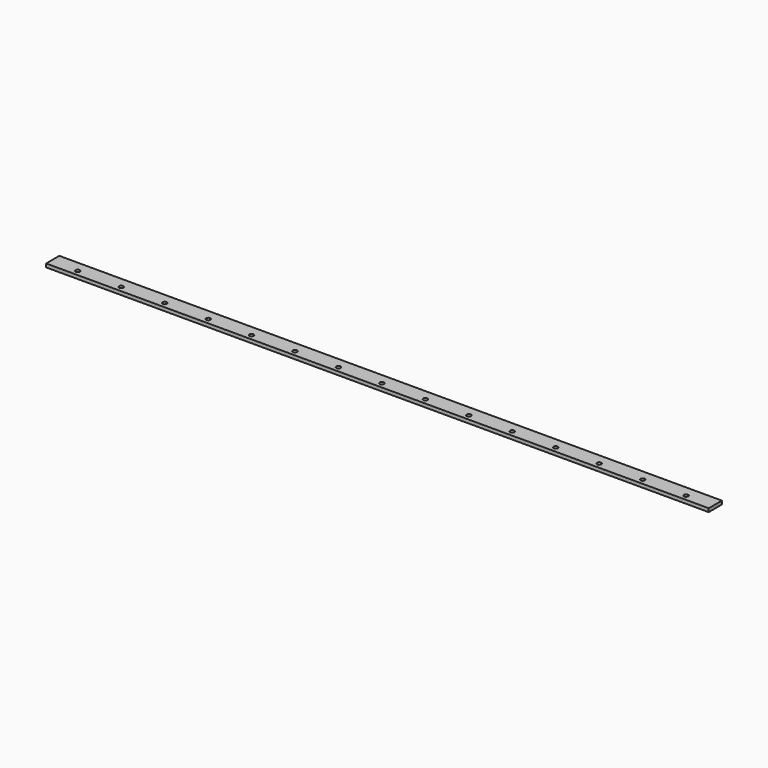
from build123d import *

# Parameters (mm, degrees)
F0_W     = 1525
F0_H     = 38
F1_DEPTH = 8
F2_R     = 5
F3_DEPTH = 8.001


with BuildPart() as f1:
    # F0 (on Top) → F1 (new body)
    with BuildSketch(Plane.XY):
        Rectangle(F0_W, F0_H)
    extrude(amount=F1_DEPTH)

    # F2 (on face) → F3 (cut, through all)
    with BuildSketch(Plane.XY.offset(8)):
        with Locations((-700, -6)):
            Circle(F2_R)
        with Locations((-600, -6)):
            Circle(F2_R)
        with Locations((-500, -6)):
            Circle(F2_R)
        with Locations((-400, -6)):
            Circle(F2_R)
        with Locations((-300, -6)):
            Circle(F2_R)
        with Locations((-200, -6)):
            Circle(F2_R)
        with Locations((-100, -6)):
            Circle(F2_R)
        with Locations((0, -6)):
            Circle(F2_R)
        with Locations((100, -6)):
            Circle(F2_R)
        with Locations((200, -6)):
            Circle(F2_R)
        with Locations((300, -6)):
            Circle(F2_R)
        with Locations((400, -6)):
            Circle(F2_R)
        with Locations((500, -6)):
            Circle(F2_R)
        with Locations((600, -6)):
            Circle(F2_R)
        with Locations((700, -6)):
            Circle(F2_R)
    extrude(amount=-F3_DEPTH, mode=Mode.SUBTRACT)


solid = f1.part
